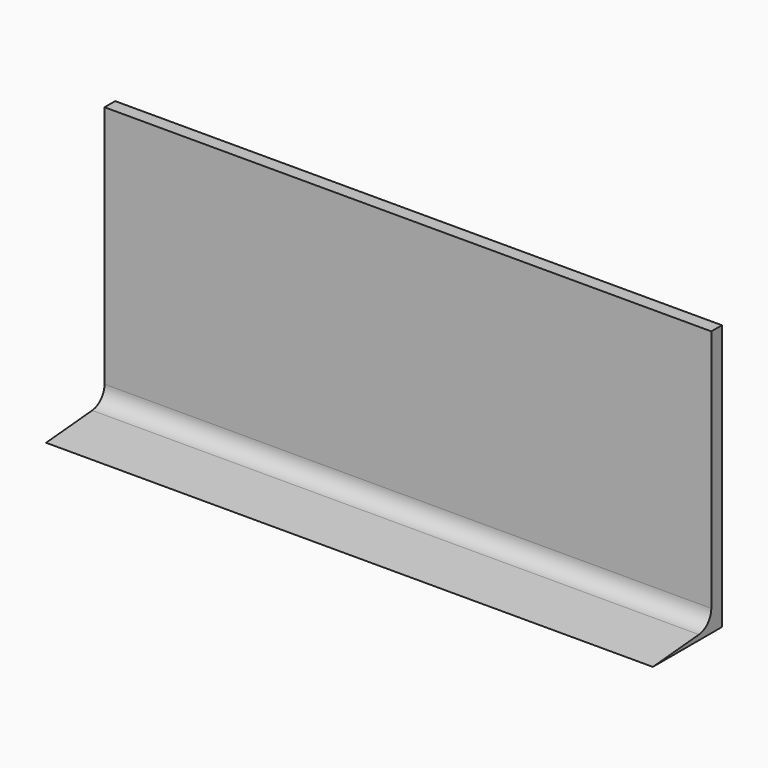
from build123d import *

# Parameters (mm, degrees)
F0_W     = 91.34856
F0_H     = 40
F1_DEPTH = 13
F3_DEPTH = 127
F4_R     = 2.54


with BuildPart() as f1:
    # F0 (on Front) → F1 (new body)
    with BuildSketch(Plane.XZ):
        with Locations((45.67428, 20)):
            Rectangle(F0_W, F0_H)
    extrude(amount=F1_DEPTH)

    # F2 (on face) → F3 (cut)
    with BuildSketch(Plane.YZ.offset(91.34856)):
        Polygon((-13, 40), (-13, 0), (-2, 0.962375), (-2, 40), align=None)
    extrude(amount=-F3_DEPTH, mode=Mode.SUBTRACT)

    # F4
    f4_edges = [f1.edges().sort_by_distance(p)[0] for p in [
        (45.67428, -2, 0.962375),
    ]]
    fillet(f4_edges, radius=F4_R)


solid = f1.part
